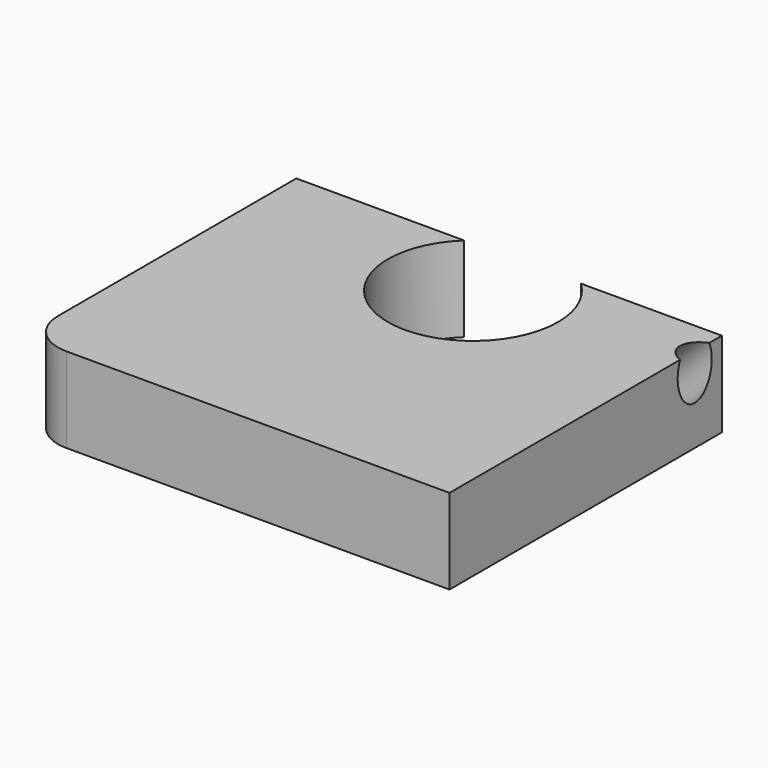
from build123d import *

# Parameters (mm, degrees)
F1_DEPTH = 25.4
F3_R     = 6.35
F4_DEPTH = 127


with BuildPart() as f1:
    # F0 (on Top) → F1 (new body)
    with BuildSketch(Plane.XY):
        with BuildLine():
            Line((-17.417779, 21.28453), (-67.501719, 21.28453))
            Line((-67.501719, 21.28453), (-67.501719, -67.61547))
            ThreePointArc((-67.501719, -67.61547), (-63.781975, -76.595726), (-54.801719, -80.31547))
            Line((-54.801719, -80.31547), (59.498281, -80.31547))
            Line((59.498281, -80.31547), (59.498281, 21.28453))
            Line((59.498281, 21.28453), (17.417779, 21.28453))
            ThreePointArc((17.417779, 21.28453), (23.319215, 12.865687), (25.4, 2.797211))
            ThreePointArc((25.4, 2.797211), (-10.068476, -20.522004), (-17.417779, 21.28453))
        make_face()
    extrude(amount=F1_DEPTH)

    # F3 (on face) → F4 (cut)
    with BuildSketch(Plane(origin=(42.449141, 0, 42.449141), x_dir=(0.707107, 0, -0.707107), z_dir=(-0.707107, 0, -0.707107))):
        with Locations((27.353058, -11.136638)):
            Circle(F3_R)
    extrude(amount=F4_DEPTH, mode=Mode.SUBTRACT)


solid = f1.part
